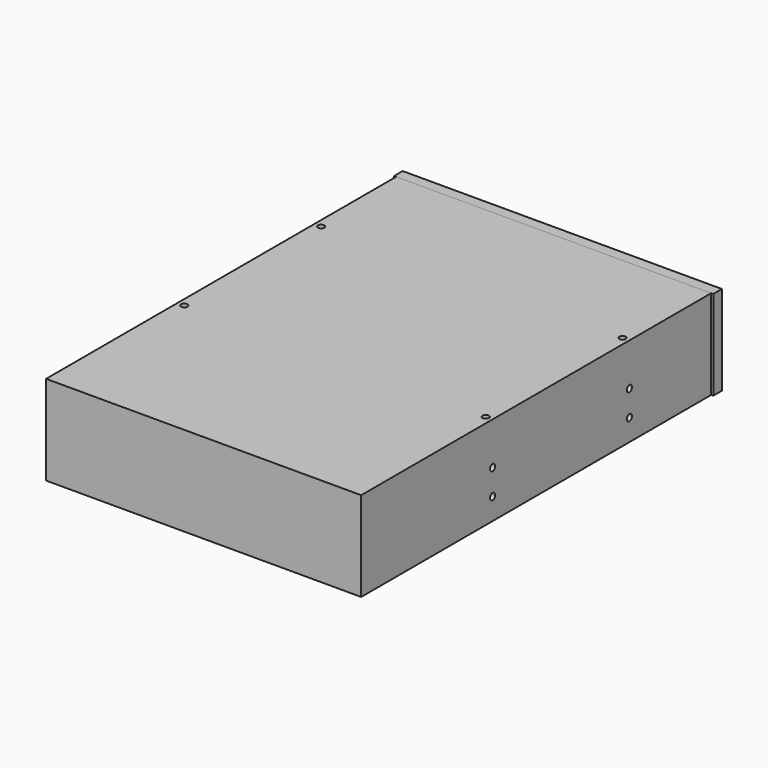
from build123d import *

# Parameters (mm, degrees)
F0_W     = 146.05
F0_H     = 202.8
F0_R     = 1.5
F2_DEPTH = 41.53
F3_DEPTH = 41.53
F1_R     = 1.5
F4_DEPTH = 147.026


with BuildPart() as f2:
    # F0 (on Top) → F2 (new body, through all)
    with BuildSketch(Plane.XY):
        with Locations((73.025, 101.4)):
            Rectangle(F0_W, F0_H)
        with Locations((3.175, 76.15)):
            Circle(F0_R, mode=Mode.SUBTRACT)
        with Locations((142.875, 76.15)):
            Circle(F0_R, mode=Mode.SUBTRACT)
        with Locations((3.175, 155.4)):
            Circle(F0_R, mode=Mode.SUBTRACT)
        with Locations((142.875, 155.4)):
            Circle(F0_R, mode=Mode.SUBTRACT)
    extrude(amount=F2_DEPTH)

    # F1 (on Right) → F4 (cut, through all)
    with BuildSketch(Plane.YZ):
        with Locations((155.4, 21.84)):
            Circle(F1_R)
        with Locations((155.4, 10)):
            Circle(F1_R)
        with Locations((76.15, 21.84)):
            Circle(F1_R)
        with Locations((76.15, 10)):
            Circle(F1_R)
    extrude(amount=F4_DEPTH, mode=Mode.SUBTRACT)


with BuildPart() as f3:
    # F0 (on Top) → F3 (new body, through all)
    with BuildSketch(Plane.XY):
        Polygon((-0.975, 202.8), (0, 202.8), (146.05, 202.8), (147.025, 202.8), (147.025, 207.8), (-0.975, 207.8), align=None)
    extrude(amount=F3_DEPTH)


solid = Compound([f2.part, f3.part])
